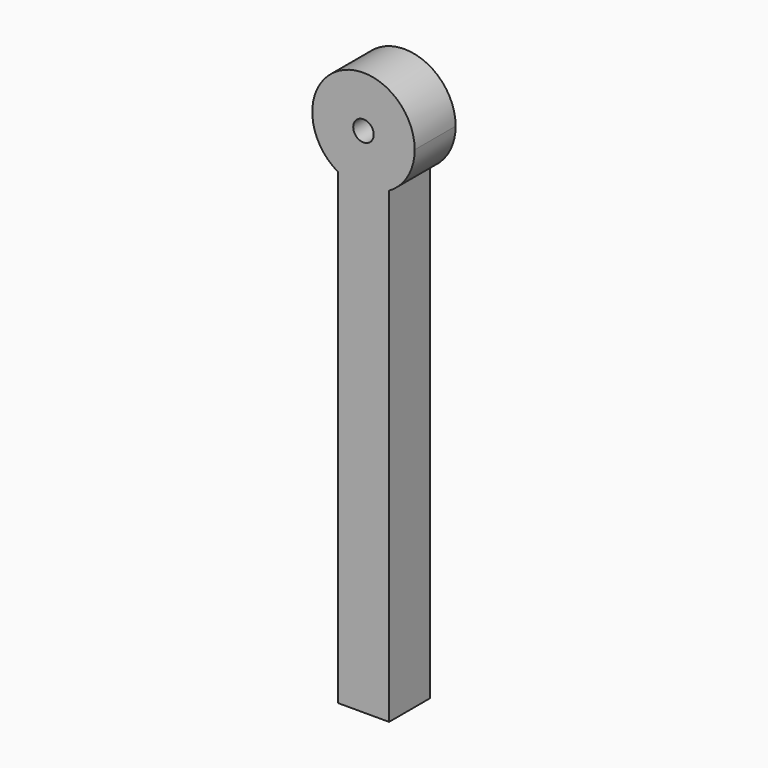
from build123d import *

# Parameters (mm, degrees)
F1_DEPTH = 25
F2_DEPTH = 25
F4_D     = 10
F4_DEPTH = 140
F4_TIP   = 3.0043030951
F6_D     = 10


with BuildPart() as f1:
    # F0 (on Front) → F1 (new body)
    with BuildSketch(Plane.XZ):
        with BuildLine():
            Line((-12.5, 103.3493649054), (-12.5, -125))
            Line((-12.5, -125), (12.5, -125))
            Line((12.5, -125), (12.5, 103.3493649054))
            ThreePointArc((12.5, 103.3493649054), (0, 100), (-12.5, 103.3493649054))
        make_face()
    extrude(amount=F1_DEPTH)

    # F0 (on Front) → F2 (join)
    with BuildSketch(Plane.XZ):
        with BuildLine():
            Line((-12.5, 103.3493649054), (-12.5, -125))
            Line((-12.5, -125), (12.5, -125))
            Line((12.5, -125), (12.5, 103.3493649054))
            ThreePointArc((12.5, 103.3493649054), (0, 100), (-12.5, 103.3493649054))
        make_face()
        with BuildLine():
            ThreePointArc((25, 125), (-12.5, 146.6506350946), (-12.5, 103.3493649054))
            Line((-12.5, 103.3493649054), (-12.5, 125))
            Line((-12.5, 125), (12.5, 125))
            Line((12.5, 125), (12.5, 103.3493649054))
            ThreePointArc((12.5, 103.3493649054), (21.6506350946, 112.5), (25, 125))
        make_face()
        with BuildLine():
            Line((-12.5, 125), (-12.5, 103.3493649054))
            ThreePointArc((-12.5, 103.3493649054), (0, 100), (12.5, 103.3493649054))
            Line((12.5, 103.3493649054), (12.5, 125))
            Line((12.5, 125), (-12.5, 125))
        make_face()
    extrude(amount=F2_DEPTH)

    # F4
    with Locations(Plane(origin=(0, 0, -125), x_dir=(1, 0, 0), z_dir=(0, 0, -1))):
        with Locations((0, 12.5)):
            Hole(F4_D / 2, depth=F4_DEPTH)
            with Locations((0, 0, -(F4_DEPTH + F4_TIP / 2))):  # 118° drill point
                Cone(0, F4_D / 2, F4_TIP, mode=Mode.SUBTRACT)

    # F6 (through all)
    with Locations(Plane.XZ.offset(25)):
        with Locations((0, 125)):
            Hole(F6_D / 2)


solid = f1.part
